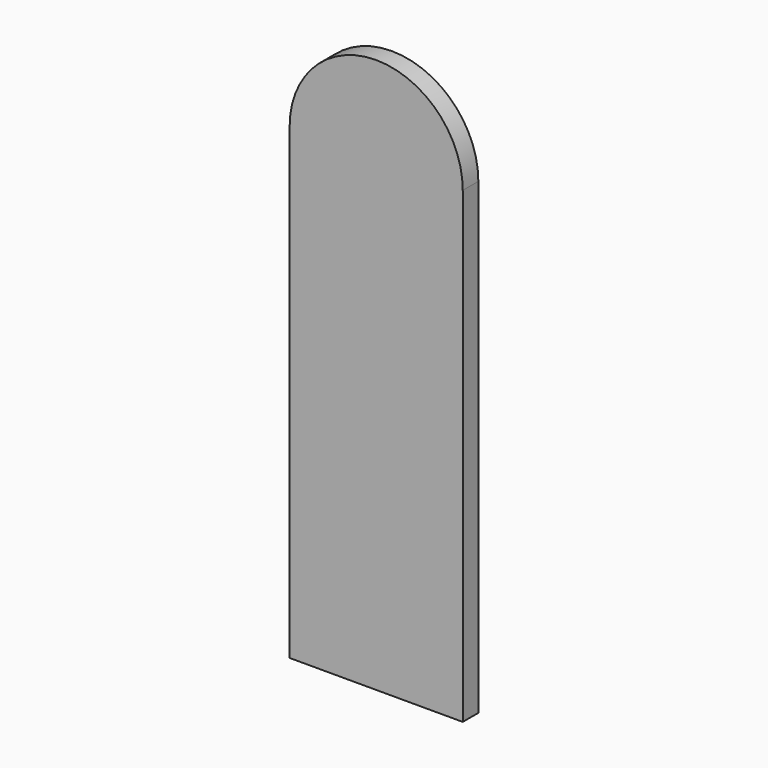
from build123d import *

# Parameters (mm, degrees)
F1_DEPTH = 1.5875


with BuildPart() as f1:
    # F0 (on Front) → F1 (new body, symmetric)
    with BuildSketch(Plane.XZ):
        with BuildLine():
            Line((-14.0925247772, -38.1), (14.0925247772, -38.1))
            Line((14.0925247772, -38.1), (14.0925247772, 38.1))
            ThreePointArc((14.0925247772, 38.1), (0, 52.1925247772), (-14.0925247772, 38.1))
            Line((-14.0925247772, 38.1), (-14.0925247772, -38.1))
        make_face()
    extrude(amount=F1_DEPTH, both=True)


solid = f1.part
